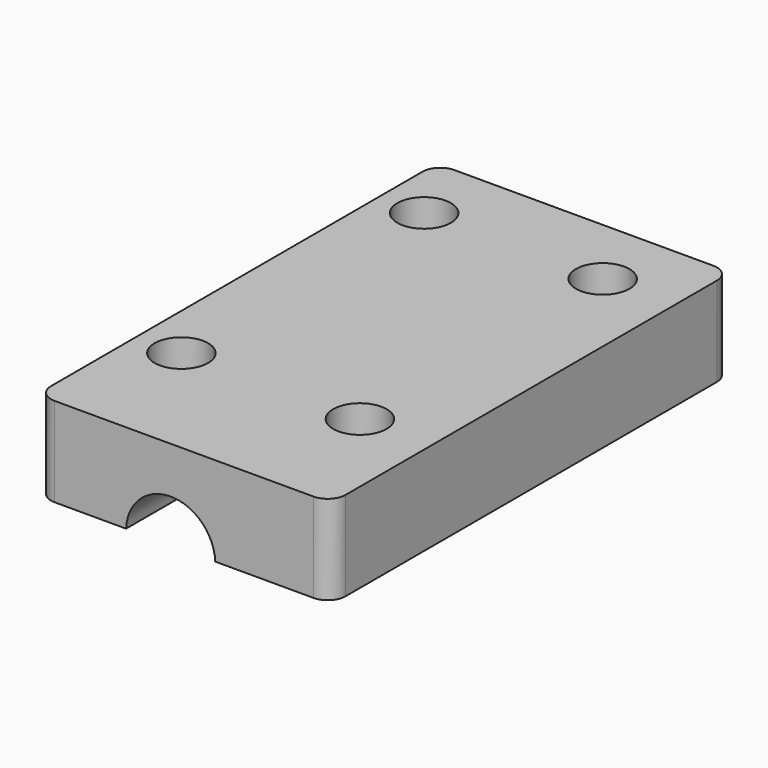
from build123d import *

# Parameters (mm, degrees)
SKETCH001_W  = 16.5
SKETCH001_H  = 28
SKETCH001_R  = 1.5
PAD001_DEPTH = 5
SKETCH_R     = 2.5
POCKET_DEPTH = 28.001
FILLET_R     = 1


with BuildPart() as part:
    # Sketch001 → Pad001 (new body)
    with BuildSketch(Plane.XY.offset(3)):
        with Locations((14.25, -1.5)):
            Rectangle(SKETCH001_W, SKETCH001_H)
        with Locations((8.5, 8.5)):
            Circle(SKETCH001_R, mode=Mode.SUBTRACT)
        with Locations((18.5, 8.5)):
            Circle(SKETCH001_R, mode=Mode.SUBTRACT)
        with Locations((18.5, -8.5)):
            Circle(SKETCH001_R, mode=Mode.SUBTRACT)
        with Locations((8.5, -8.5)):
            Circle(SKETCH001_R, mode=Mode.SUBTRACT)
    extrude(amount=PAD001_DEPTH)

    # Sketch (on Face3 of Pad001) → Pocket (cut, through all)
    with BuildSketch(Plane(origin=(0, -15.5, 3), x_dir=(1, 0, 0), z_dir=(0, -1, 0))):
        with Locations((13.5, -0.1)):
            Circle(SKETCH_R)
    extrude(amount=-POCKET_DEPTH, mode=Mode.SUBTRACT)

    # Fillet
    fillet_edges = [part.edges().sort_by_distance(p)[0] for p in [
        (6, -15.5, 5.5),
        (22.5, -15.5, 5.5),
        (22.5, 12.5, 5.5),
        (6, 12.5, 5.5),
    ]]
    fillet(fillet_edges, radius=FILLET_R)


solid = part.part
